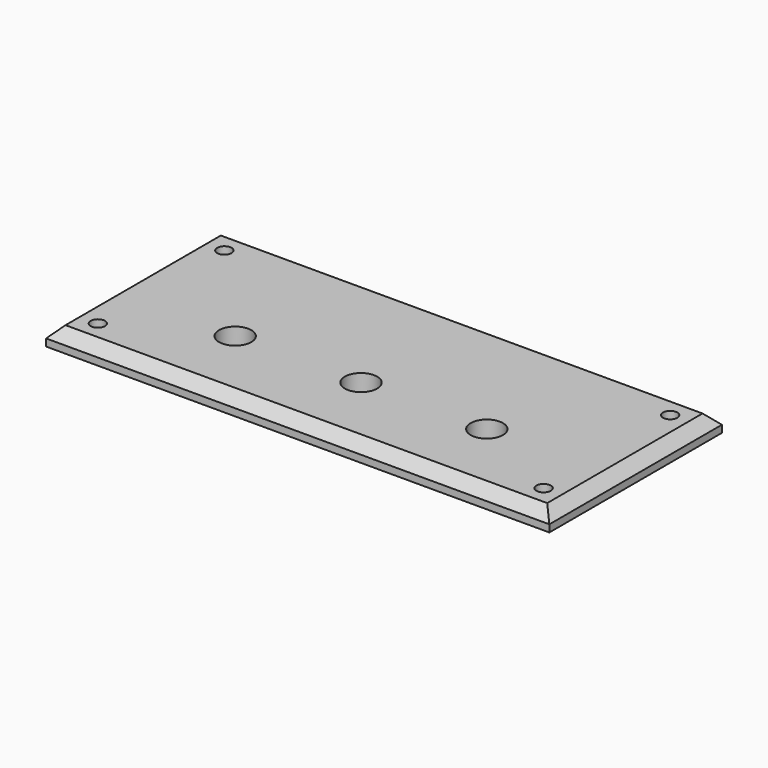
from build123d import *

# Parameters (mm, degrees)
F0_W     = 140
F0_H     = 60
F0_R     = 2
F0_R_2   = 4.5
F1_DEPTH = 5
F2_SIZE2 = 3
F2_SIZE  = 3


with BuildPart() as f1:
    # F0 (on Top) → F1 (new body)
    with BuildSketch(Plane.XY):
        Rectangle(F0_W, F0_H)
        with Locations((-62, -22)):
            Circle(F0_R, mode=Mode.SUBTRACT)
        with Locations((-35, -8)):
            Circle(F0_R_2, mode=Mode.SUBTRACT)
        with Locations((62, -22)):
            Circle(F0_R, mode=Mode.SUBTRACT)
        with Locations((0, -8)):
            Circle(F0_R_2, mode=Mode.SUBTRACT)
        with Locations((35, -8)):
            Circle(F0_R_2, mode=Mode.SUBTRACT)
        with Locations((-62, 22)):
            Circle(F0_R, mode=Mode.SUBTRACT)
        with Locations((62, 22)):
            Circle(F0_R, mode=Mode.SUBTRACT)
    extrude(amount=F1_DEPTH)

    # F2
    f2_edges = [f1.edges().sort_by_distance(p)[0] for p in [
        (0, -30, 5),
        (-70, 0, 5),
        (0, 30, 5),
        (70, 0, 5),
    ]]
    chamfer(f2_edges, length=F2_SIZE, length2=F2_SIZE2)


solid = f1.part
